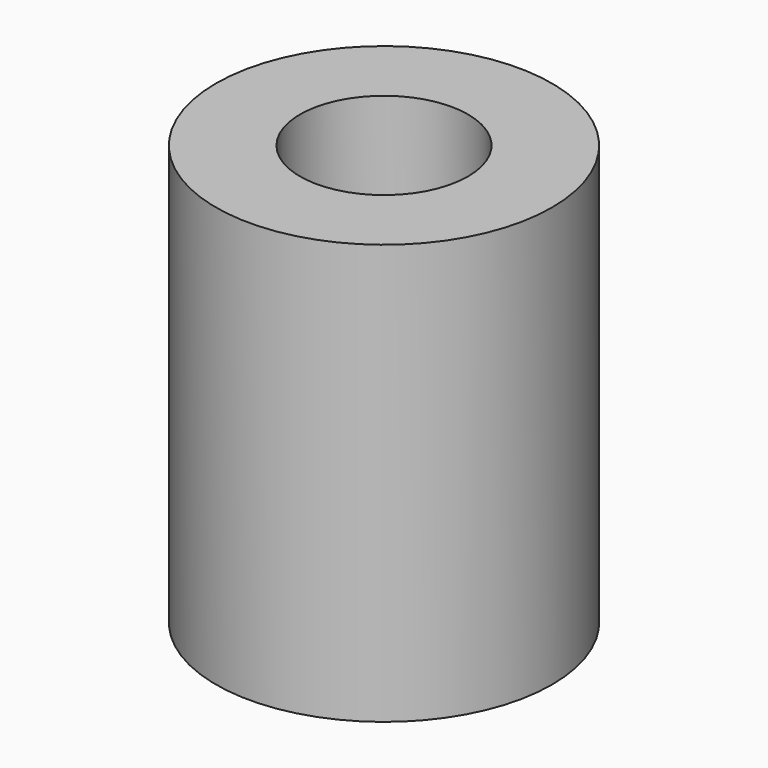
from build123d import *

# Parameters (mm, degrees)
SKETCH_R        = 10
PAD_DEPTH       = 25
SKETCH001_R     = 2.75
POCKET_DEPTH    = 25.001
SKETCH002_R     = 5
POCKET001_DEPTH = 10


with BuildPart() as part:
    # Sketch → Pad (new body)
    with BuildSketch(Plane.XY):
        Circle(SKETCH_R)
    extrude(amount=PAD_DEPTH)

    # Sketch001 (on Face3 of Pad) → Pocket (cut, through all)
    with BuildSketch(Plane.XY.offset(25)):
        Circle(SKETCH001_R)
    extrude(amount=-POCKET_DEPTH, mode=Mode.SUBTRACT)

    # Sketch002 (on Face3 of Pocket) → Pocket001 (cut)
    with BuildSketch(Plane.XY.offset(25)):
        Circle(SKETCH002_R)
    extrude(amount=-POCKET001_DEPTH, mode=Mode.SUBTRACT)


solid = part.part
